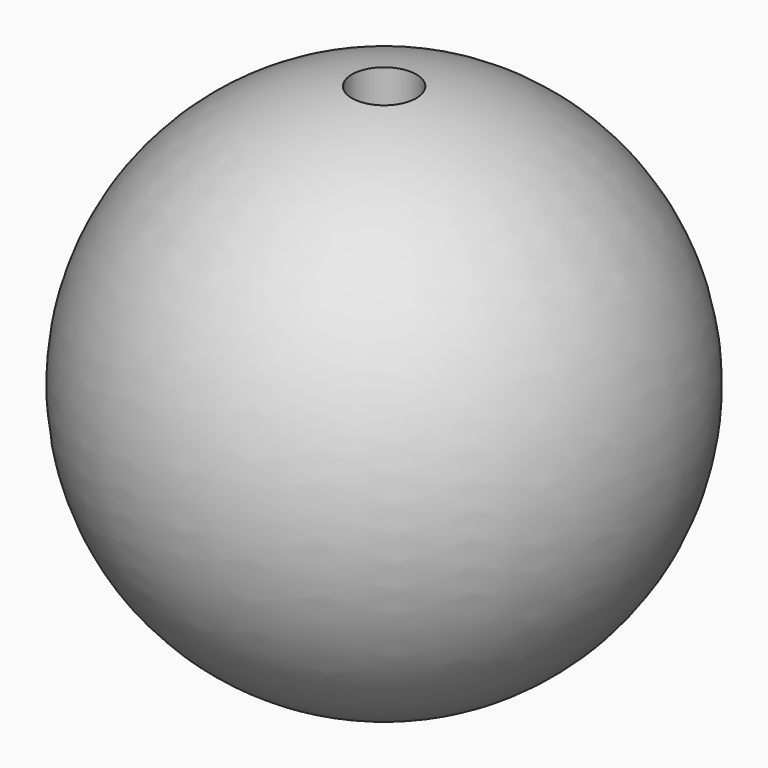
from build123d import *

# Parameters (mm, degrees)
F3_D = 6.35


with BuildPart() as f1:
    # F0 (on Front) → F1 (revolve)
    with BuildSketch(Plane.XZ):
        with BuildLine():
            ThreePointArc((0, 52.047875), (-25.992667, 26.023937), (0, 0))
            Line((0, 0), (0, 52.047875))
        make_face()
    revolve(axis=Axis((0, 0, 14.048072), (0, 0, -1)))

    # F3 (through all)
    with Locations(Plane(origin=(0, 0, 0), x_dir=(1, 0, 0), z_dir=(0, 0, -1))):
        with Locations((0, 0)):
            Hole(F3_D / 2)


solid = f1.part
